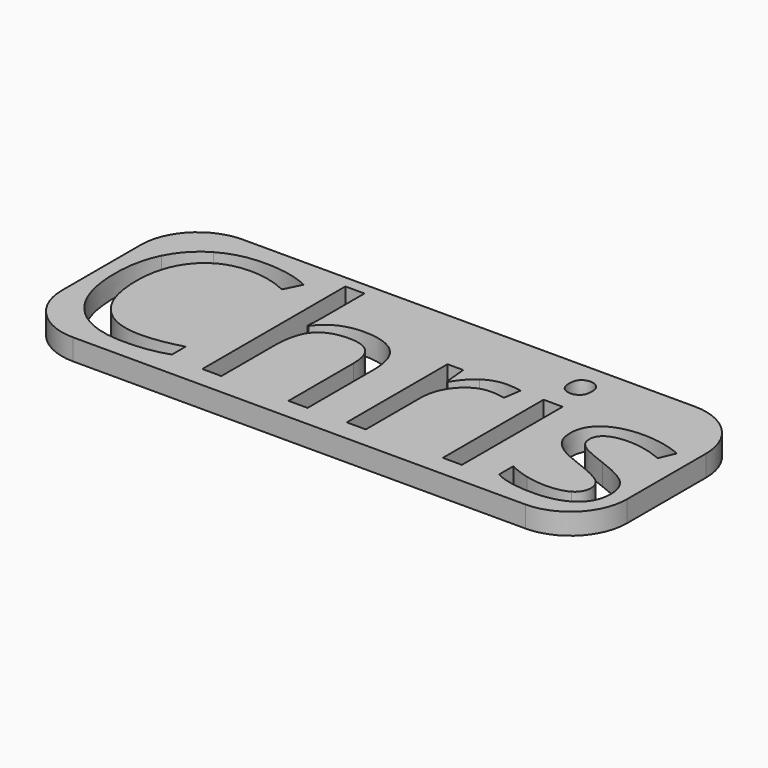
from build123d import *

# Parameters (mm, degrees)
F0_W     = 80
F0_H     = 30
F0_W_2   = 2.7010148322
F0_H_2   = 17.8246161853
F1_DEPTH = 3
F2_R     = 8


with BuildPart() as f1:
    # F0 (on Top) → F1 (new body)
    with BuildSketch(Plane.XY):
        with Locations((40, 15)):
            Rectangle(F0_W, F0_H)
        with BuildLine():
            add(Edge.make_bspline(
                [(18.8498568826, 23.389279209), (16.1488420505, 24.6539162113), (13.4478272183, 24.6539162113)],
                knots=[0, 0, 0, 1, 1, 1], degree=2))
            add(Edge.make_bspline(
                [(13.4478272183, 24.6539162113), (9.5290137913, 24.6539162113), (7.2599531616, 22.0439760604)],
                knots=[0, 0, 0, 1, 1, 1], degree=2))
            add(Edge.make_bspline(
                [(7.2599531616, 22.0439760604), (4.9908925319, 19.4340359094), (4.9908925319, 14.89591465)],
                knots=[0, 0, 0, 1, 1, 1], degree=2))
            add(Edge.make_bspline(
                [(4.9908925319, 14.89591465), (4.9908925319, 10.2328909706), (7.1792870154, 7.6854020297)],
                knots=[0, 0, 0, 1, 1, 1], degree=2))
            add(Edge.make_bspline(
                [(7.1792870154, 7.6854020297), (9.3676814988, 5.1379130887), (13.4166016133, 5.1379130887)],
                knots=[0, 0, 0, 1, 1, 1], degree=2))
            add(Edge.make_bspline(
                [(13.4166016133, 5.1379130887), (15.904241478, 5.1379130887), (19.0944574551, 6.0330470986)],
                knots=[0, 0, 0, 1, 1, 1], degree=2))
            Line((19.0944574551, 6.0330470986), (19.0944574551, 3.6130627114))
            add(Edge.make_bspline(
                [(19.0944574551, 3.6130627114), (16.6224303929, 2.681498829), (12.9950559459, 2.681498829)],
                knots=[0, 0, 0, 1, 1, 1], degree=2))
            add(Edge.make_bspline(
                [(12.9950559459, 2.681498829), (7.743950039, 2.681498829), (4.8894093156, 5.8717148061)],
                knots=[0, 0, 0, 1, 1, 1], degree=2))
            add(Edge.make_bspline(
                [(4.8894093156, 5.8717148061), (2.0348685922, 9.0619307832), (2.0348685922, 14.9323445225)],
                knots=[0, 0, 0, 1, 1, 1], degree=2))
            add(Edge.make_bspline(
                [(2.0348685922, 14.9323445225), (2.0348685922, 18.606557377), (3.4087952121, 21.3700234192)],
                knots=[0, 0, 0, 1, 1, 1], degree=2))
            add(Edge.make_bspline(
                [(3.4087952121, 21.3700234192), (4.7827218319, 24.1334894614), (7.3770491803, 25.6297163674)],
                knots=[0, 0, 0, 1, 1, 1], degree=2))
            add(Edge.make_bspline(
                [(7.3770491803, 25.6297163674), (9.9713765288, 27.1259432735), (13.4842570908, 27.1259432735)],
                knots=[0, 0, 0, 1, 1, 1], degree=2))
            add(Edge.make_bspline(
                [(13.4842570908, 27.1259432735), (17.2209211553, 27.1259432735), (20.02081707, 25.7624251887)],
                knots=[0, 0, 0, 1, 1, 1], degree=2))
            Line((20.02081707, 25.7624251887), (18.8498568826, 23.389279209))
        make_face(mode=Mode.SUBTRACT)
        with BuildLine():
            add(Edge.make_bspline(
                [(49.3780900338, 20.2172781681), (50.7780379912, 21.1618527192), (52.4538121259, 21.1618527192)],
                knots=[0, 0, 0, 1, 1, 1], degree=2))
            add(Edge.make_bspline(
                [(52.4538121259, 21.1618527192), (53.6403851158, 21.1618527192), (54.5823575332, 20.9640905543)],
                knots=[0, 0, 0, 1, 1, 1], degree=2))
            Line((54.5823575332, 20.9640905543), (54.2076502732, 18.4608378871))
            add(Edge.make_bspline(
                [(54.2076502732, 18.4608378871), (53.1043455634, 18.7054384595), (52.256049961, 18.7054384595)],
                knots=[0, 0, 0, 1, 1, 1], degree=2))
            add(Edge.make_bspline(
                [(52.256049961, 18.7054384595), (50.0910746812, 18.7054384595), (48.5558157689, 16.9489981785)],
                knots=[0, 0, 0, 1, 1, 1], degree=2))
            add(Edge.make_bspline(
                [(48.5558157689, 16.9489981785), (47.0205568566, 15.1925578975), (47.0205568566, 12.5748113453)],
                knots=[0, 0, 0, 1, 1, 1], degree=2))
            Line((47.0205568566, 12.5748113453), (47.0205568566, 3.0093676815))
            Line((47.0205568566, 3.0093676815), (44.3195420245, 3.0093676815))
            Line((44.3195420245, 3.0093676815), (44.3195420245, 20.8339838668))
            Line((44.3195420245, 20.8339838668), (46.5469685142, 20.8339838668))
            Line((46.5469685142, 20.8339838668), (46.8592245641, 17.5344782722))
            Line((46.8592245641, 17.5344782722), (46.9893312516, 17.5344782722))
            add(Edge.make_bspline(
                [(46.9893312516, 17.5344782722), (47.9781420765, 19.272703617), (49.3780900338, 20.2172781681)],
                knots=[0, 0, 0, 1, 1, 1], degree=2))
        make_face(mode=Mode.SUBTRACT)
        with Locations((59.2688004163, 11.9216757741)):
            Rectangle(F0_W_2, F0_H_2, mode=Mode.SUBTRACT)
        with BuildLine():
            add(Edge.make_bspline(
                [(76.7265157429, 10.8157689305), (77.8402289878, 9.6448087432), (77.8402289878, 7.8701535259)],
                knots=[0, 0, 0, 1, 1, 1], degree=2))
            add(Edge.make_bspline(
                [(77.8402289878, 7.8701535259), (77.8402289878, 5.3825136612), (75.987509758, 4.0320062451)],
                knots=[0, 0, 0, 1, 1, 1], degree=2))
            add(Edge.make_bspline(
                [(75.987509758, 4.0320062451), (74.1347905282, 2.681498829), (70.7832422587, 2.681498829)],
                knots=[0, 0, 0, 1, 1, 1], degree=2))
            add(Edge.make_bspline(
                [(70.7832422587, 2.681498829), (67.2391360916, 2.681498829), (65.2563101743, 3.8056206089)],
                knots=[0, 0, 0, 1, 1, 1], degree=2))
            Line((65.2563101743, 3.8056206089), (65.2563101743, 6.3088732761))
            add(Edge.make_bspline(
                [(65.2563101743, 6.3088732761), (66.5417642467, 5.6583398387), (68.0119698152, 5.2862347125)],
                knots=[0, 0, 0, 1, 1, 1], degree=2))
            add(Edge.make_bspline(
                [(68.0119698152, 5.2862347125), (69.4821753838, 4.9141295863), (70.8508977361, 4.9141295863)],
                knots=[0, 0, 0, 1, 1, 1], degree=2))
            add(Edge.make_bspline(
                [(70.8508977361, 4.9141295863), (72.9638303409, 4.9141295863), (74.1009627895, 5.5880822274)],
                knots=[0, 0, 0, 1, 1, 1], degree=2))
            add(Edge.make_bspline(
                [(74.1009627895, 5.5880822274), (75.2380952381, 6.2620348686), (75.2380952381, 7.6463700234)],
                knots=[0, 0, 0, 1, 1, 1], degree=2))
            add(Edge.make_bspline(
                [(75.2380952381, 7.6463700234), (75.2380952381, 8.6872235233), (74.3377569607, 9.4262295082)],
                knots=[0, 0, 0, 1, 1, 1], degree=2))
            add(Edge.make_bspline(
                [(74.3377569607, 9.4262295082), (73.4374186833, 10.1652354931), (70.8144678636, 11.174863388)],
                knots=[0, 0, 0, 1, 1, 1], degree=2))
            add(Edge.make_bspline(
                [(70.8144678636, 11.174863388), (68.326827999, 12.1012230029), (67.2781680978, 12.7933905803)],
                knots=[0, 0, 0, 1, 1, 1], degree=2))
            add(Edge.make_bspline(
                [(67.2781680978, 12.7933905803), (66.2295081967, 13.4855581577), (65.716887848, 14.3624772313)],
                knots=[0, 0, 0, 1, 1, 1], degree=2))
            add(Edge.make_bspline(
                [(65.716887848, 14.3624772313), (65.2042674993, 15.239396305), (65.2042674993, 16.4571948998)],
                knots=[0, 0, 0, 1, 1, 1], degree=2))
            add(Edge.make_bspline(
                [(65.2042674993, 16.4571948998), (65.2042674993, 18.637782982), (66.9789227166, 19.8998178506)],
                knots=[0, 0, 0, 1, 1, 1], degree=2))
            add(Edge.make_bspline(
                [(66.9789227166, 19.8998178506), (68.7535779339, 21.1618527192), (71.839708561, 21.1618527192)],
                knots=[0, 0, 0, 1, 1, 1], degree=2))
            add(Edge.make_bspline(
                [(71.839708561, 21.1618527192), (74.7176684882, 21.1618527192), (77.4707259953, 19.9908925319)],
                knots=[0, 0, 0, 1, 1, 1], degree=2))
            Line((77.4707259953, 19.9908925319), (76.5079365079, 17.7946916472))
            add(Edge.make_bspline(
                [(76.5079365079, 17.7946916472), (73.8277387458, 18.897996357), (71.6471506635, 18.897996357)],
                knots=[0, 0, 0, 1, 1, 1], degree=2))
            add(Edge.make_bspline(
                [(71.6471506635, 18.897996357), (69.7267759563, 18.897996357), (68.7509758002, 18.2969034608)],
                knots=[0, 0, 0, 1, 1, 1], degree=2))
            add(Edge.make_bspline(
                [(68.7509758002, 18.2969034608), (67.775175644, 17.6958105647), (67.775175644, 16.6393442623)],
                knots=[0, 0, 0, 1, 1, 1], degree=2))
            add(Edge.make_bspline(
                [(67.775175644, 16.6393442623), (67.775175644, 15.9211553474), (68.1420765027, 15.4189435337)],
                knots=[0, 0, 0, 1, 1, 1], degree=2))
            add(Edge.make_bspline(
                [(68.1420765027, 15.4189435337), (68.5089773614, 14.91673172), (69.3208430913, 14.4613583138)],
                knots=[0, 0, 0, 1, 1, 1], degree=2))
            add(Edge.make_bspline(
                [(69.3208430913, 14.4613583138), (70.1327088212, 14.0059849076), (72.4434035909, 13.1420765027)],
                knots=[0, 0, 0, 1, 1, 1], degree=2))
            add(Edge.make_bspline(
                [(72.4434035909, 13.1420765027), (75.612802498, 11.9867291179), (76.7265157429, 10.8157689305)],
                knots=[0, 0, 0, 1, 1, 1], degree=2))
        make_face(mode=Mode.SUBTRACT)
        with BuildLine():
            Line((38.7769971377, 3.0093676815), (36.0759823055, 3.0093676815))
            Line((36.0759823055, 3.0093676815), (36.0759823055, 14.5420244601))
            add(Edge.make_bspline(
                [(36.0759823055, 14.5420244601), (36.0759823055, 16.7174082748), (35.0845693469, 17.7920895134)],
                knots=[0, 0, 0, 1, 1, 1], degree=2))
            add(Edge.make_bspline(
                [(35.0845693469, 17.7920895134), (34.0931563882, 18.866770752), (31.975019516, 18.866770752)],
                knots=[0, 0, 0, 1, 1, 1], degree=2))
            add(Edge.make_bspline(
                [(31.975019516, 18.866770752), (29.1647150664, 18.866770752), (27.8714545928, 17.3367161072)],
                knots=[0, 0, 0, 1, 1, 1], degree=2))
            add(Edge.make_bspline(
                [(27.8714545928, 17.3367161072), (26.5781941192, 15.8066614624), (26.5781941192, 12.3302107728)],
                knots=[0, 0, 0, 1, 1, 1], degree=2))
            Line((26.5781941192, 12.3302107728), (26.5781941192, 3.0093676815))
            Line((26.5781941192, 3.0093676815), (23.877179287, 3.0093676815))
            Line((23.877179287, 3.0093676815), (23.877179287, 28.3177205308))
            Line((23.877179287, 28.3177205308), (26.5781941192, 28.3177205308))
            Line((26.5781941192, 28.3177205308), (26.5781941192, 20.6570387718))
            add(Edge.make_bspline(
                [(26.5781941192, 20.6570387718), (26.5781941192, 19.272703617), (26.4480874317, 18.3619568046)],
                knots=[0, 0, 0, 1, 1, 1], degree=2))
            Line((26.4480874317, 18.3619568046), (26.6094197242, 18.3619568046))
            add(Edge.make_bspline(
                [(26.6094197242, 18.3619568046), (27.4056726516, 19.6474108769), (28.8784803539, 20.3864168618)],
                knots=[0, 0, 0, 1, 1, 1], degree=2))
            add(Edge.make_bspline(
                [(28.8784803539, 20.3864168618), (30.3512880562, 21.1254228467), (32.235232891, 21.1254228467)],
                knots=[0, 0, 0, 1, 1, 1], degree=2))
            add(Edge.make_bspline(
                [(32.235232891, 21.1254228467), (35.5035128806, 21.1254228467), (37.1402550091, 19.5719489982)],
                knots=[0, 0, 0, 1, 1, 1], degree=2))
            add(Edge.make_bspline(
                [(37.1402550091, 19.5719489982), (38.7769971377, 18.0184751496), (38.7769971377, 14.635701275)],
                knots=[0, 0, 0, 1, 1, 1], degree=2))
            Line((38.7769971377, 14.635701275), (38.7769971377, 3.0093676815))
        make_face(mode=Mode.SUBTRACT)
        with BuildLine():
            add(Edge.make_bspline(
                [(58.1446786365, 24.3052302888), (57.6893052303, 24.7527972938), (57.6893052303, 25.6635441062)],
                knots=[0, 0, 0, 1, 1, 1], degree=2))
            add(Edge.make_bspline(
                [(57.6893052303, 25.6635441062), (57.6893052303, 26.5899037211), (58.1446786365, 27.0218579235)],
                knots=[0, 0, 0, 1, 1, 1], degree=2))
            add(Edge.make_bspline(
                [(58.1446786365, 27.0218579235), (58.6000520427, 27.4538121259), (59.2870153526, 27.4538121259)],
                knots=[0, 0, 0, 1, 1, 1], degree=2))
            add(Edge.make_bspline(
                [(59.2870153526, 27.4538121259), (59.93754879, 27.4538121259), (60.4085349987, 27.0140515222)],
                knots=[0, 0, 0, 1, 1, 1], degree=2))
            add(Edge.make_bspline(
                [(60.4085349987, 27.0140515222), (60.8795212074, 26.5742909186), (60.8795212074, 25.6635441062)],
                knots=[0, 0, 0, 1, 1, 1], degree=2))
            add(Edge.make_bspline(
                [(60.8795212074, 25.6635441062), (60.8795212074, 24.7527972938), (60.4085349987, 24.3052302888)],
                knots=[0, 0, 0, 1, 1, 1], degree=2))
            add(Edge.make_bspline(
                [(60.4085349987, 24.3052302888), (59.93754879, 23.8576632839), (59.2870153526, 23.8576632839)],
                knots=[0, 0, 0, 1, 1, 1], degree=2))
            add(Edge.make_bspline(
                [(59.2870153526, 23.8576632839), (58.6000520427, 23.8576632839), (58.1446786365, 24.3052302888)],
                knots=[0, 0, 0, 1, 1, 1], degree=2))
        make_face(mode=Mode.SUBTRACT)
    extrude(amount=-F1_DEPTH)

    # F2
    f2_edges = [f1.edges().sort_by_distance(p)[0] for p in [
        (0, 30, -1.5),
        (0, 0, -1.5),
        (80, 30, -1.5),
        (80, 0, -1.5),
    ]]
    fillet(f2_edges, radius=F2_R)


solid = f1.part
